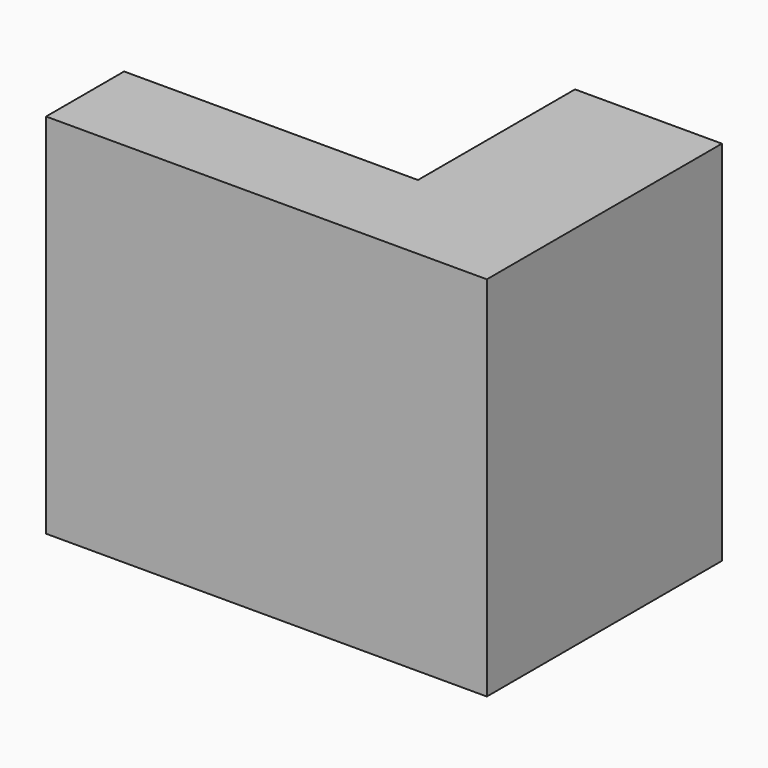
from build123d import *

# Parameters (mm, degrees)
F0_W     = 38.1
F0_H     = 31.75
F1_DEPTH = 25.4
F3_DEPTH = 25.4
F4_DEPTH = 0.0543467271


with BuildPart() as f1:
    # F0 (on Front) → F1 (new body)
    with BuildSketch(Plane.XZ):
        with Locations((19.05, 15.875)):
            Rectangle(F0_W, F0_H)
    extrude(amount=F1_DEPTH)

    # F2 (on Right) → F3 (cut)
    with BuildSketch(Plane.YZ):
        Polygon((0, 31.696639955), (-17.193024978, 32.0808403194), (0, 6.7235296592), align=None)
    extrude(amount=F3_DEPTH, mode=Mode.SUBTRACT)

    # F4 (cut, through all): a face of the model
    f4_faces = [f1.faces().sort_by_distance(p)[0] for p in [
        (12.7, -1.1939350803, 31.7233199775),
    ]]
    extrude(f4_faces, amount=-F4_DEPTH, mode=Mode.SUBTRACT)


solid = f1.part
